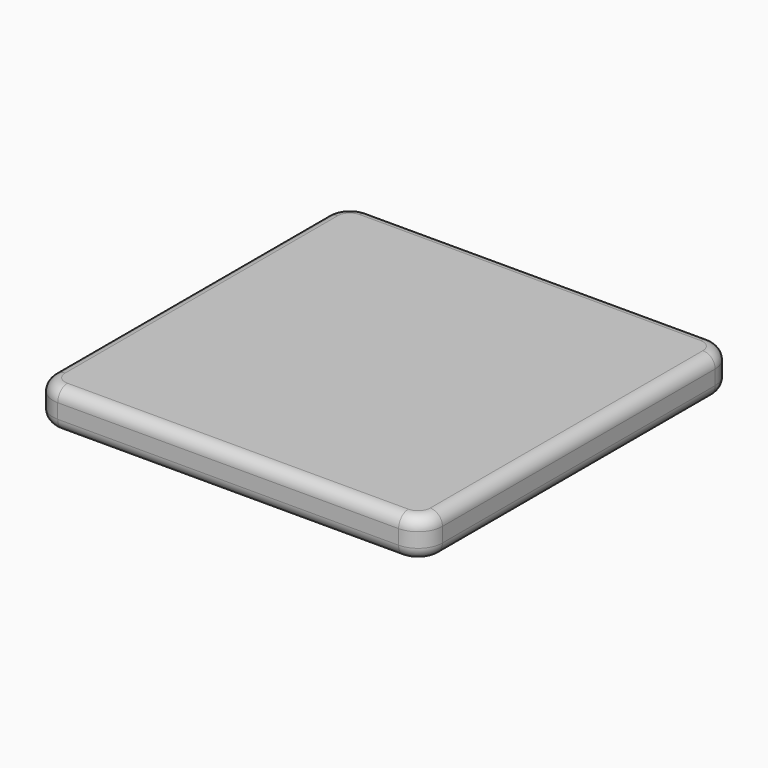
from build123d import *

# Parameters (mm, degrees)
BOX009_W     = 160
BOX009_H     = 160
BOX009_DEPTH = 16
FILLET_R     = 10
FILLET001_R  = 5
FILLET002_R  = 5


with BuildPart() as part:
    # Box009 → Box009 (new body)
    with BuildSketch(Plane.XY):
        with Locations((80, 80)):
            Rectangle(BOX009_W, BOX009_H)
    extrude(amount=BOX009_DEPTH)

    # Fillet
    fillet_edges = [part.edges().sort_by_distance(p)[0] for p in [
        (0, 0, 8),
        (0, 160, 8),
        (160, 0, 8),
        (160, 160, 8),
    ]]
    fillet(fillet_edges, radius=FILLET_R)

    # Fillet001
    fillet001_edges = [part.edges().sort_by_distance(p)[0] for p in [
        (0, 80, 16),
        (2.928932, 2.928932, 16),
        (2.928932, 157.071068, 16),
        (80, 0, 16),
        (80, 160, 16),
        (157.071068, 2.928932, 16),
        (157.071068, 157.071068, 16),
        (160, 80, 16),
    ]]
    fillet(fillet001_edges, radius=FILLET001_R)

    # Fillet002
    fillet002_edges = [part.edges().sort_by_distance(p)[0] for p in [
        (0, 80, 0),
        (2.928932, 2.928932, 0),
        (2.928932, 157.071068, 0),
        (80, 0, 0),
        (80, 160, 0),
        (157.071068, 2.928932, 0),
        (157.071068, 157.071068, 0),
        (160, 80, 0),
    ]]
    fillet(fillet002_edges, radius=FILLET002_R)


with BuildPart() as part_1:
    # Fillet002 placement: moved
    add(part.part.moved(Location((-10, -10, 40))))


solid = part_1.part
